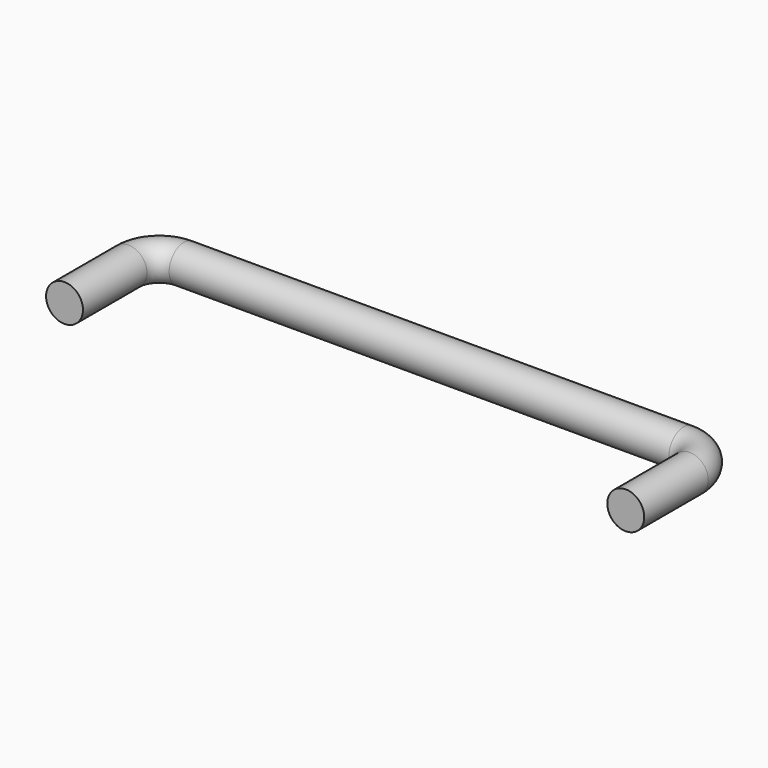
from build123d import *

# Parameters (mm, degrees)
F2_R = 1.5


with BuildPart() as f3:
    # F3: sweep along a path in F0
    with BuildLine(Plane.XY) as f3_path:
        Line((22.8, -9), (22.8, -2.5))
        ThreePointArc((22.8, -2.5), (22.067767, -0.732233), (20.3, 0))
        Line((20.3, 0), (-20.3, 0))
        ThreePointArc((-20.3, 0), (-22.067767, -0.732233), (-22.8, -2.5))
        Line((-22.8, -2.5), (-22.8, -9))
    # F2 (on face) → F3 (sweep)
    with BuildSketch(Plane(origin=(0, -9, 0), x_dir=(-1, 0, 0), z_dir=(0, 1, 0))):
        with Locations((-22.8, 0)):
            Circle(F2_R)
    sweep(path=f3_path.line)


solid = f3.part
